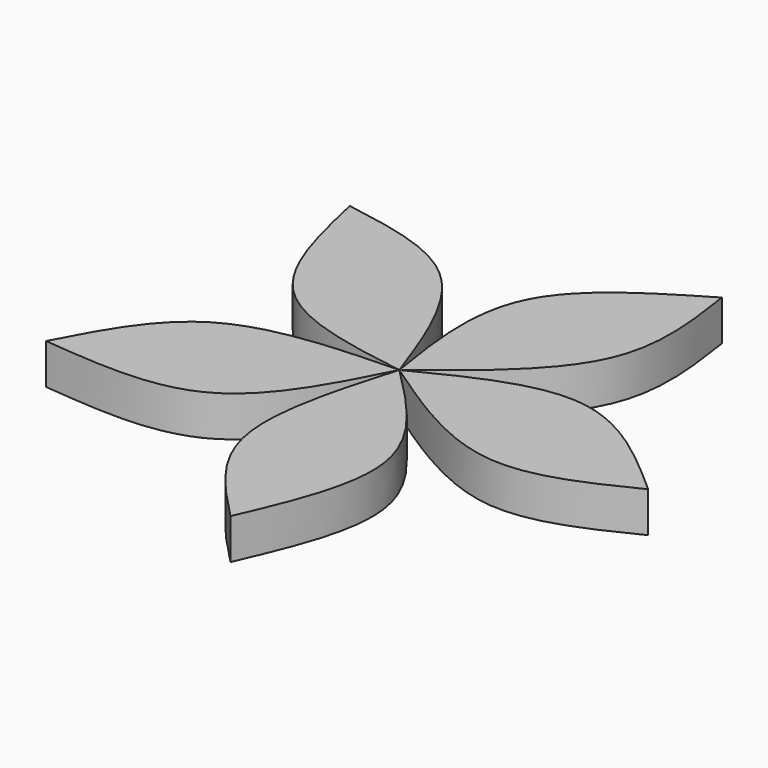
from build123d import *

# Parameters (mm, degrees)
F1_DEPTH = 3.175
F2_COUNT = 5


with BuildPart() as f1:
    # F0 (on Top) → F1 (new body)
    with BuildSketch(Plane.XY):
        with BuildLine():
            add(Edge.make_bspline(
                [(0, 0), (-4.3535521986, 0.6895998092), (-13.0820477327, 2.0721877695), (-15.0079224136, 10.7568364273), (-15.973219648, 15.1098025963)],
                knots=[0, 0, 0, 0, 0.4987746378, 1, 1, 1, 1], degree=3))
            add(Edge.make_bspline(
                [(-15.973219648, 15.1098025963), (-12.3747265261, 14.4976893591), (-4.7181698037, 13.1952887258), (-1.6344219969, 4.5709821915), (0, 0)],
                knots=[0, 0, 0, 0, 0.4699884364, 1, 1, 1, 1], degree=3))
        make_face()
    extrude(amount=F1_DEPTH)


with BuildPart() as f2_1:
    # F2: instance of F1
    add(f1.part.rotate(Axis((0, 0, 1.5875), (0, 0, -1)), 1 * 360 / F2_COUNT))


with BuildPart() as f2_2:
    # F2: instance of F1
    add(f1.part.rotate(Axis((0, 0, 1.5875), (0, 0, -1)), 2 * 360 / F2_COUNT))


with BuildPart() as f2_3:
    # F2: instance of F1
    add(f1.part.rotate(Axis((0, 0, 1.5875), (0, 0, -1)), 3 * 360 / F2_COUNT))


with BuildPart() as f2_4:
    # F2: instance of F1
    add(f1.part.rotate(Axis((0, 0, 1.5875), (0, 0, -1)), 4 * 360 / F2_COUNT))


solid = Compound([f1.part, f2_1.part, f2_2.part, f2_3.part, f2_4.part])
